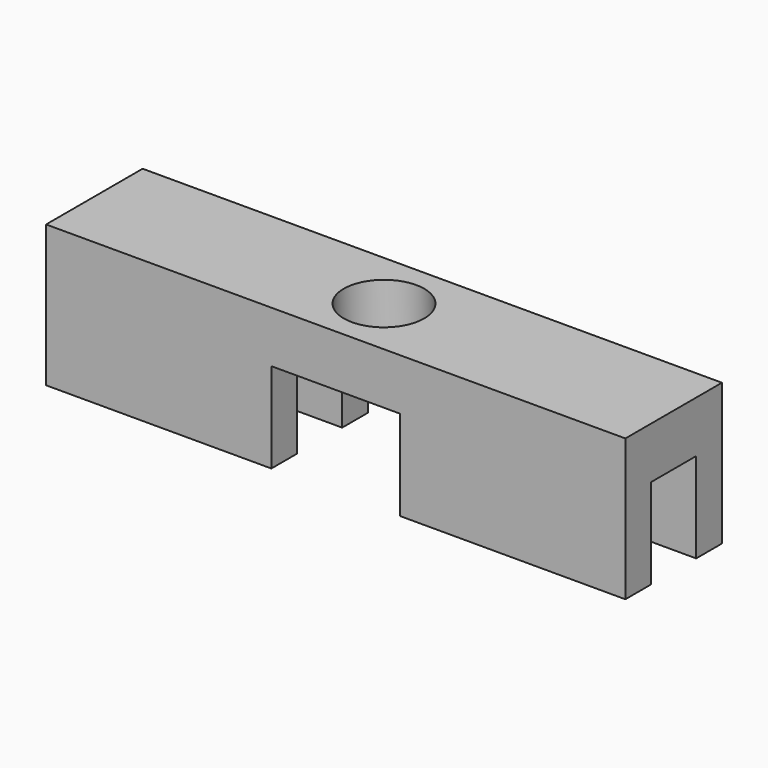
from build123d import *

# Parameters (mm, degrees)
F0_W     = 57.15
F0_H     = 13.97
F1_DEPTH = 3.175
F2_W     = 57.15
F2_H     = 5.08
F3_DEPTH = 2.778125
F5_R     = 3.96875
F6_DEPTH = 13.971
F7_W     = 12.7
F7_H     = 11.90625
F8_DEPTH = 8.89


with BuildPart() as f1:
    # F0 (on Front) → F1 (new body)
    with BuildSketch(Plane.XZ):
        Rectangle(F0_W, F0_H)
    extrude(amount=F1_DEPTH)

    # F2 (on face) → F3 (join)
    with BuildSketch(Plane(origin=(0, 0, 0), x_dir=(-1, 0, 0), z_dir=(0, 1, 0))):
        with Locations((0, 4.445)):
            Rectangle(F2_W, F2_H)
    extrude(amount=F3_DEPTH)

    # F4: F1 across face


with BuildPart() as f1_1:
    add(f1.part)
    add(f1.part.mirror(Plane(origin=(0, 2.778125, 4.445), x_dir=(-1, 0, 0), z_dir=(0, 1, 0))))

    # F5 (on face) → F6 (cut, through all)
    with BuildSketch(Plane.XY.offset(6.985)):
        with Locations((0, 2.778125)):
            Circle(F5_R)
    extrude(amount=-F6_DEPTH, mode=Mode.SUBTRACT)

    # F7 (on face) → F8 (cut)
    with BuildSketch(Plane(origin=(0, 0, -6.985), x_dir=(1, 0, 0), z_dir=(0, 0, -1))):
        with Locations((0, -2.778125)):
            Rectangle(F7_W, F7_H)
    extrude(amount=-F8_DEPTH, mode=Mode.SUBTRACT)


solid = f1_1.part
